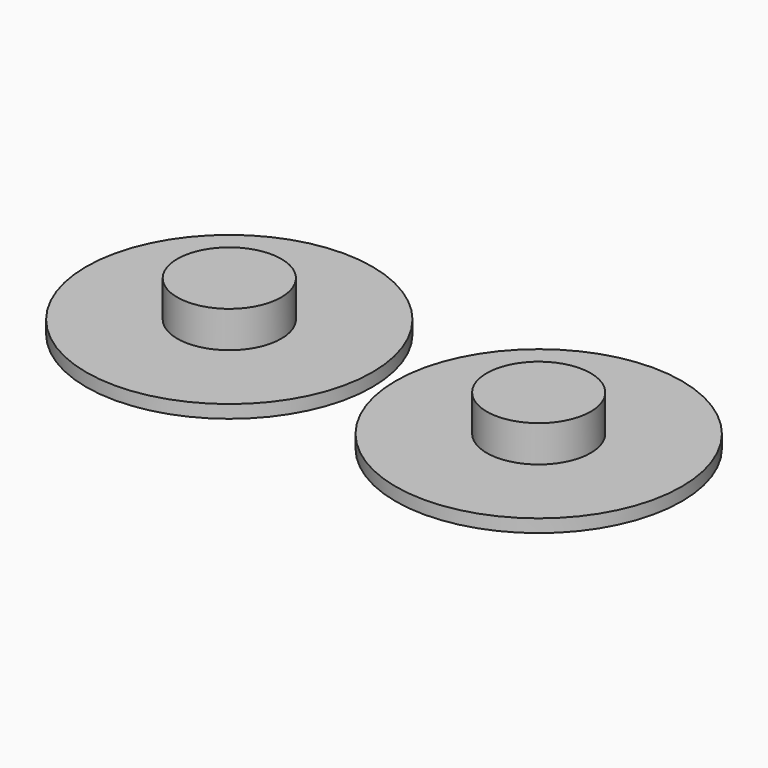
from build123d import *

# Parameters (mm, degrees)
F0_R     = 11
F0_R_2   = 4
F1_DEPTH = 1
F2_DEPTH = 3.8


with BuildPart() as f1:
    # F0 (on Top) → F1 (new body)
    with BuildSketch(Plane.XY):
        with Locations((23.7885564566, 0)):
            Circle(F0_R)
        with Locations((23.7885564566, 0)):
            Circle(F0_R_2, mode=Mode.SUBTRACT)
        with Locations((23.7885564566, 0)):
            Circle(F0_R_2)
    extrude(amount=F1_DEPTH)


with BuildPart() as f1b:
    # F0 (on Top) → F1, piece 2 (new body)
    with BuildSketch(Plane.XY):
        Circle(F0_R)
        Circle(F0_R_2, mode=Mode.SUBTRACT)
        Circle(F0_R_2)
    extrude(amount=F1_DEPTH)


with BuildPart() as f2:
    # F0 (on Top) → F2 (new body)
    with BuildSketch(Plane.XY):
        Circle(F0_R_2)
    extrude(amount=F2_DEPTH)


with BuildPart() as f2b:
    # F0 (on Top) → F2, piece 2 (new body)
    with BuildSketch(Plane.XY):
        with Locations((23.7885564566, 0)):
            Circle(F0_R_2)
    extrude(amount=F2_DEPTH)


solid = Compound([f1.part, f1b.part, f2.part, f2b.part])
